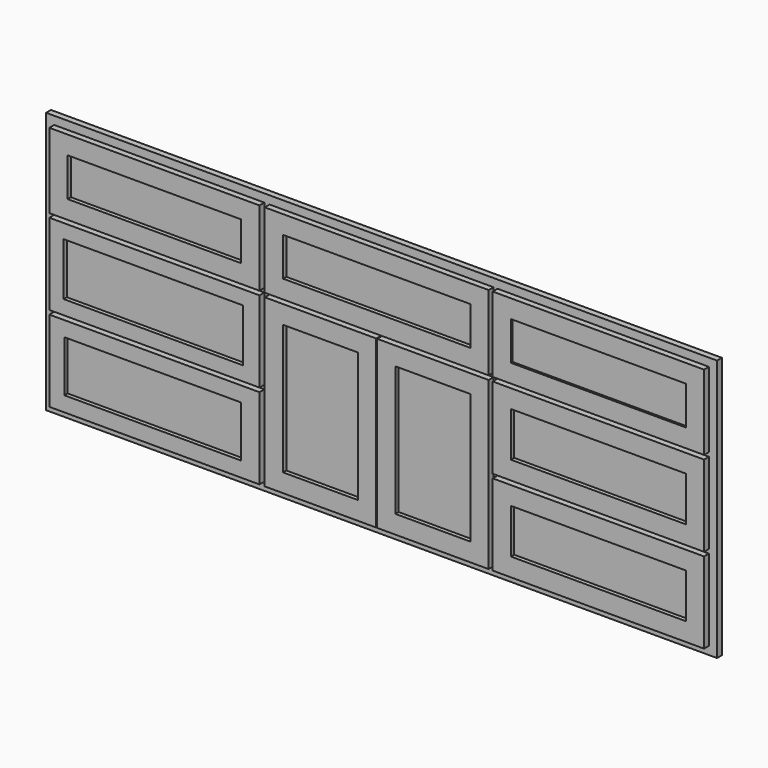
from build123d import *

# Parameters (mm, degrees)
F0_W      = 635.6985
F0_H      = 38.1
F0_W_2    = 674.878
F1_DEPTH  = 19.05
F2_W      = 657.2885064902
F2_H      = 254
F2_W_2    = 553.1485062082
F2_H_2    = 160.0199994359
F3_DEPTH  = 19.05
F2_W_3    = 560.7685060475
F2_H_3    = 165.0999991145
F4_DEPTH  = 19.05
F2_H_4    = 234.95
F2_W_4    = 542.9885064902
F2_H_5    = 120.65
F5_DEPTH  = 19.05
F6_DEPTH  = 6.35
F2_W_5    = 700.278
F2_W_6    = 585.978
F7_DEPTH  = 19.05
F8_DEPTH  = 6.35
F9_DEPTH  = 6.35
F2_W_7    = 335.8515
F2_H_6    = 495.3
F2_W_8    = 234.2515
F2_H_7    = 406.4
F10_DEPTH = 19.05
F11_DEPTH = 6.35
F2_W_9    = 661.0985
F2_W_10   = 546.7985
F2_H_8    = 139.7
F12_DEPTH = 19.05
F13_DEPTH = 12.7
F14_DEPTH = 6.35
F15_DEPTH = 6.35
F16_DEPTH = 6.35


with BuildPart() as f1:
    # F0 (on Front) → F1 (new body)
    with BuildSketch(Plane.XZ):
        Polygon((-986.4497834325, 548.455909781), (-1024.5497834325, 548.455909781), (-1024.5497834325, -270.694090219), (-986.4497834325, -270.694090219), (-986.4497834325, -232.594090219), (-986.4497834325, -3.994090219), (-986.4497834325, 34.105909781), (-986.4497834325, 262.705909781), (-986.4497834325, 300.805909781), (-986.4497834325, 510.355909781), align=None)
        with Locations((-668.6005334325, -251.644090219)):
            Rectangle(F0_W, F0_H)
        with Locations((-668.6005334325, 15.055909781)):
            Rectangle(F0_W, F0_H)
        with Locations((-668.6005334325, 281.755909781)):
            Rectangle(F0_W, F0_H)
        with Locations((-668.6005334325, 529.405909781)):
            Rectangle(F0_W, F0_H)
        Polygon((-312.6512834325, 548.455909781), (-350.7512834325, 548.455909781), (-350.7512834325, 510.355909781), (-350.7512834325, 300.805909781), (-350.7512834325, 262.705909781), (-350.7512834325, 34.105909781), (-350.7512834325, -3.994090219), (-350.7512834325, -232.594090219), (-350.7512834325, -270.694090219), (-312.6512834325, -270.694090219), (-312.6512834325, -232.594090219), (-312.6512834325, 262.705909781), (-312.6512834325, 300.805909781), (-312.6512834325, 510.355909781), align=None)
        with Locations((24.7877165675, 529.405909781)):
            Rectangle(F0_W_2, F0_H)
        with Locations((24.7877165675, 281.755909781)):
            Rectangle(F0_W_2, F0_H)
        with Locations((24.7877165675, -251.644090219)):
            Rectangle(F0_W_2, F0_H)
        Polygon((400.3267165675, 548.455909781), (362.2267165675, 548.455909781), (362.2267165675, 510.355909781), (362.2267165675, 300.805909781), (362.2267165675, 262.705909781), (362.2267165675, -232.594090219), (362.2267165675, -270.694090219), (400.3267165675, -270.694090219), (400.3267165675, -232.594090219), (400.3267165675, -3.994090219), (400.3267165675, 34.105909781), (400.3267165675, 262.705909781), (400.3267165675, 300.805909781), (400.3267165675, 510.355909781), align=None)
        with Locations((718.1759665675, 15.055909781)):
            Rectangle(F0_W, F0_H)
        with Locations((718.1759665675, 281.755909781)):
            Rectangle(F0_W, F0_H)
        with Locations((718.1759665675, 529.405909781)):
            Rectangle(F0_W, F0_H)
        with Locations((718.1759665675, -251.644090219)):
            Rectangle(F0_W, F0_H)
        Polygon((1036.0252165675, -270.694090219), (1074.1252165675, -270.694090219), (1074.1252165675, 548.455909781), (1036.0252165675, 548.455909781), (1036.0252165675, 510.355909781), (1036.0252165675, 300.805909781), (1036.0252165675, 262.705909781), (1036.0252165675, 34.105909781), (1036.0252165675, -3.994090219), (1036.0252165675, -232.594090219), align=None)
    extrude(amount=-F1_DEPTH)

    # F2 (on face) → F3 (join)
    with BuildSketch(Plane.XZ):
        with Locations((-670.5055301874, -118.294090219)):
            Rectangle(F2_W, F2_H)
        with Locations((-675.5855300463, -118.294090219)):
            Rectangle(F2_W_2, F2_H_2, mode=Mode.SUBTRACT)
    extrude(amount=F3_DEPTH)

    # F2 (on face) → F4 (join)
    with BuildSketch(Plane.XZ):
        with Locations((-670.5055301874, 148.405909781)):
            Rectangle(F2_W, F2_H)
        with Locations((-674.315529966, 148.405909781)):
            Rectangle(F2_W_3, F2_H_3, mode=Mode.SUBTRACT)
    extrude(amount=F4_DEPTH)

    # F2 (on face) → F5 (join)
    with BuildSketch(Plane.XZ):
        with Locations((-670.5055301874, 405.580909781)):
            Rectangle(F2_W, F2_H_4)
        with Locations((-670.5055301874, 405.580909781)):
            Rectangle(F2_W_4, F2_H_5, mode=Mode.SUBTRACT)
    extrude(amount=F5_DEPTH)

    # F2 (on face) → F6 (join)
    with BuildSketch(Plane.XZ):
        with Locations((-670.5055301874, 405.580909781)):
            Rectangle(F2_W_4, F2_H_5)
    extrude(amount=F6_DEPTH)

    # F2 (on face) → F7 (join)
    with BuildSketch(Plane.XZ):
        with Locations((24.7877165675, 405.580909781)):
            Rectangle(F2_W_5, F2_H_4)
        with Locations((24.7877165675, 405.580909781)):
            Rectangle(F2_W_6, F2_H_5, mode=Mode.SUBTRACT)
    extrude(amount=F7_DEPTH)

    # F2 (on face) → F8 (join)
    with BuildSketch(Plane.XZ):
        with Locations((24.7877165675, 405.580909781)):
            Rectangle(F2_W_6, F2_H_5)
    extrude(amount=F8_DEPTH)

    # F2 (on face) → F9 (join)
    with BuildSketch(Plane.XZ):
        with Locations((-674.315529966, 148.405909781)):
            Rectangle(F2_W_3, F2_H_3)
        with Locations((-675.5855300463, -118.294090219)):
            Rectangle(F2_W_2, F2_H_2)
    extrude(amount=F9_DEPTH)

    # F2 (on face) → F10 (join)
    with BuildSketch(Plane.XZ):
        Polygon((23.2002165675, 275.405909781), (-325.3512834325, 275.405909781), (-325.3512834325, -245.294090219), (23.2002165675, -245.294090219), (23.2002165675, -232.594090219), (-312.6512834325, -232.594090219), (-312.6512834325, 262.705909781), (23.2002165675, 262.705909781), align=None)
        with Locations((-144.7255334325, 15.055909781)):
            Rectangle(F2_W_7, F2_H_6)
        with Locations((-151.0755334325, 15.055909781)):
            Rectangle(F2_W_8, F2_H_7, mode=Mode.SUBTRACT)
        Polygon((26.3752165675, 275.405909781), (26.3752165675, 262.705909781), (362.2267165675, 262.705909781), (362.2267165675, -232.594090219), (26.3752165675, -232.594090219), (26.3752165675, -245.294090219), (374.9267165675, -245.294090219), (374.9267165675, 275.405909781), align=None)
        with Locations((194.3009665675, 15.055909781)):
            Rectangle(F2_W_7, F2_H_6)
        with Locations((200.6509665675, 15.055909781)):
            Rectangle(F2_W_8, F2_H_7, mode=Mode.SUBTRACT)
    extrude(amount=F10_DEPTH)

    # F2 (on face) → F11 (join)
    with BuildSketch(Plane.XZ):
        with Locations((-151.0755334325, 15.055909781)):
            Rectangle(F2_W_8, F2_H_7)
        with Locations((200.6509665675, 15.055909781)):
            Rectangle(F2_W_8, F2_H_7)
    extrude(amount=F11_DEPTH)

    # F2 (on face) → F12 (join)
    with BuildSketch(Plane.XZ):
        with Locations((718.1759665675, 405.580909781)):
            Rectangle(F2_W_9, F2_H_4)
        with Locations((718.1759665675, 405.580909781)):
            Rectangle(F2_W_10, F2_H_5, mode=Mode.SUBTRACT)
        with Locations((718.1759665675, 148.405909781)):
            Rectangle(F2_W_9, F2_H)
        with Locations((718.1759665675, 148.405909781)):
            Rectangle(F2_W_10, F2_H_8, mode=Mode.SUBTRACT)
        with Locations((718.1759665675, -118.294090219)):
            Rectangle(F2_W_9, F2_H)
        with Locations((718.1759665675, -118.294090219)):
            Rectangle(F2_W_10, F2_H_8, mode=Mode.SUBTRACT)
    extrude(amount=F12_DEPTH)

    # F2 (on face) → F13 (join)
    with BuildSketch(Plane.XZ):
        with Locations((718.1759665675, 405.580909781)):
            Rectangle(F2_W_10, F2_H_5)
    extrude(amount=F13_DEPTH)

    # F14 (cut): a face of the model
    f14_faces = [f1.faces().sort_by_distance(p)[0] for p in [
        (718.1759665675, -12.7, 405.580909781),
    ]]
    extrude(f14_faces, amount=F14_DEPTH, mode=Mode.SUBTRACT)

    # F2 (on face) → F15 (cut)
    with BuildSketch(Plane.XZ):
        with Locations((718.1759665675, 405.580909781)):
            Rectangle(F2_W_10, F2_H_5)
    extrude(amount=-F15_DEPTH, mode=Mode.SUBTRACT)

    # F2 (on face) → F16 (join)
    with BuildSketch(Plane.XZ):
        with Locations((718.1759665675, 148.405909781)):
            Rectangle(F2_W_10, F2_H_8)
        with Locations((718.1759665675, -118.294090219)):
            Rectangle(F2_W_10, F2_H_8)
    extrude(amount=F16_DEPTH)


solid = f1.part
